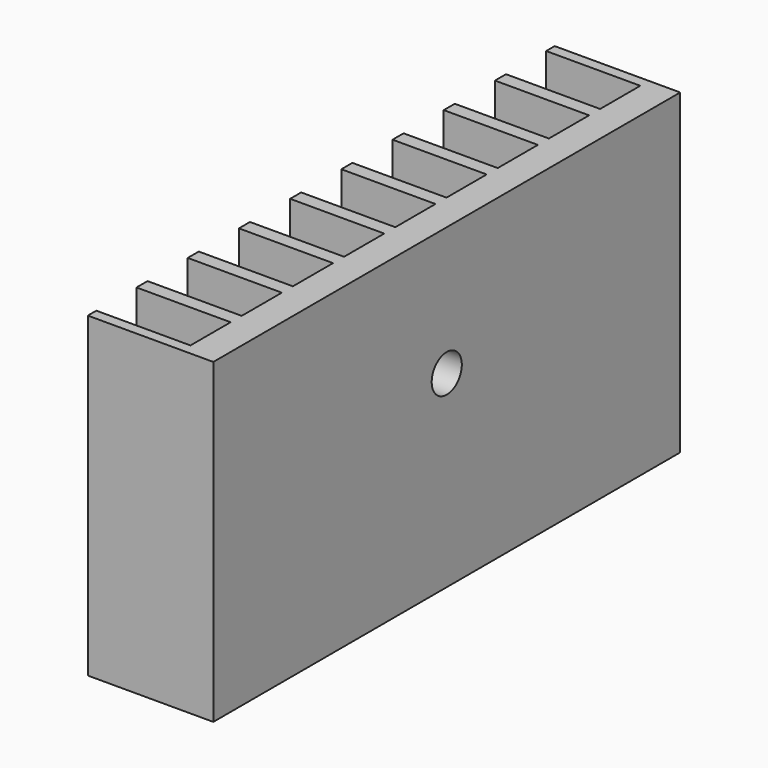
from build123d import *

# Parameters (mm, degrees)
SKETCH007_W             = 10
SKETCH007_H             = 46.5
PAD002_DEPTH            = 25.25
SKETCH006_W             = 10
SKETCH006_H             = 4
POCKET004_DEPTH         = 25.25
SKETCH005_R             = 1.5
POCKET003_DEPTH         = 5
BODY002_PLACEMENT_ANGLE = 180


with BuildPart() as part:
    # Sketch007 → Pad002 (new body)
    with BuildSketch(Plane.XY):
        Rectangle(SKETCH007_W, SKETCH007_H)
    extrude(amount=PAD002_DEPTH)

    # Sketch006 (on Face6 of Pad002) → Pocket004 (cut)
    with BuildSketch(Plane.XY.offset(25.25)):
        with Locations((2.5, 20.4)):
            Rectangle(SKETCH006_W, SKETCH006_H)
        with Locations((2.5, 10.2)):
            Rectangle(SKETCH006_W, SKETCH006_H)
        with Locations((2.5, 15.3)):
            Rectangle(SKETCH006_W, SKETCH006_H)
        with Locations((2.5, 5.1)):
            Rectangle(SKETCH006_W, SKETCH006_H)
        with Locations((2.5, 0)):
            Rectangle(SKETCH006_W, SKETCH006_H)
        with Locations((2.5, -20.4)):
            Rectangle(SKETCH006_W, SKETCH006_H)
        with Locations((2.5, -15.3)):
            Rectangle(SKETCH006_W, SKETCH006_H)
        with Locations((2.5, -10.2)):
            Rectangle(SKETCH006_W, SKETCH006_H)
        with Locations((2.5, -5.1)):
            Rectangle(SKETCH006_W, SKETCH006_H)
    extrude(amount=-POCKET004_DEPTH, mode=Mode.SUBTRACT)

    # Sketch005 (on Face26 of Pocket004) → Pocket003 (cut)
    with BuildSketch(Plane.YZ.offset(-2.5)):
        with Locations((0, 15)):
            Circle(SKETCH005_R)
    extrude(amount=-POCKET003_DEPTH, mode=Mode.SUBTRACT)


with BuildPart() as part_1:
    # Body002 placement: moved
    add(part.part.moved(Location((-21.25, 0, 1.65))).rotate(Axis((-21.25, 0, 1.65), (0, 0, 1)), BODY002_PLACEMENT_ANGLE))


solid = part_1.part
